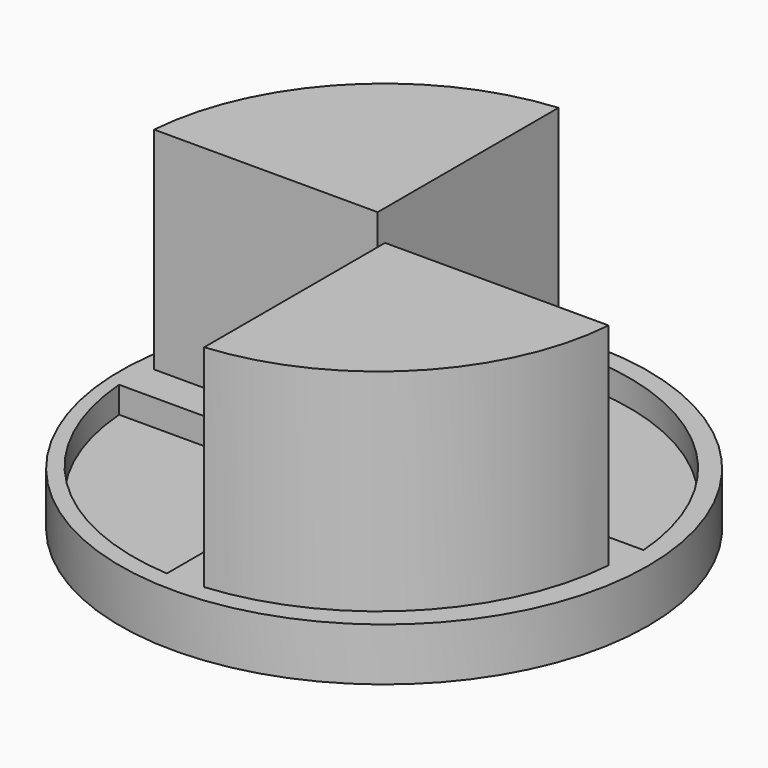
from build123d import *

# Parameters (mm, degrees)
F0_R     = 10
F1_DEPTH = 2
F3_DEPTH = 8
F4_DEPTH = 1


with BuildPart() as f1:
    # F0 (on Top) → F1 (new body)
    with BuildSketch(Plane.XY):
        with Locations((0.104472, 0)):
            Circle(F0_R)
    extrude(amount=F1_DEPTH)

    # F2 (on face) → F3 (join)
    with BuildSketch(Plane.XY.offset(2)):
        with BuildLine():
            Line((0.7, -0.7), (0.7, -9.263617))
            ThreePointArc((0.7, -9.263617), (6.502526, -6.532934), (9.16764, -0.7))
            Line((9.16764, -0.7), (0.7, -0.7))
        make_face()
        with BuildLine():
            Line((-0.7, 0.7), (-0.7, 9.263617))
            ThreePointArc((-0.7, 9.263617), (-6.502526, 6.532934), (-9.16764, 0.7))
            Line((-9.16764, 0.7), (-0.7, 0.7))
        make_face()
    extrude(amount=F3_DEPTH)

    # F2 (on face) → F4 (cut)
    with BuildSketch(Plane.XY.offset(2)):
        with BuildLine():
            Line((0.71, 0.71), (9.367301, 0.71))
            ThreePointArc((9.367301, 0.71), (6.636361, 6.605947), (0.71, 9.270245))
            Line((0.71, 9.270245), (0.71, 0.71))
        make_face()
        with BuildLine():
            Line((-0.71, -0.71), (-9.367301, -0.71))
            ThreePointArc((-9.367301, -0.71), (-6.636361, -6.605947), (-0.71, -9.270245))
            Line((-0.71, -9.270245), (-0.71, -0.71))
        make_face()
    extrude(amount=-F4_DEPTH, mode=Mode.SUBTRACT)


solid = f1.part
